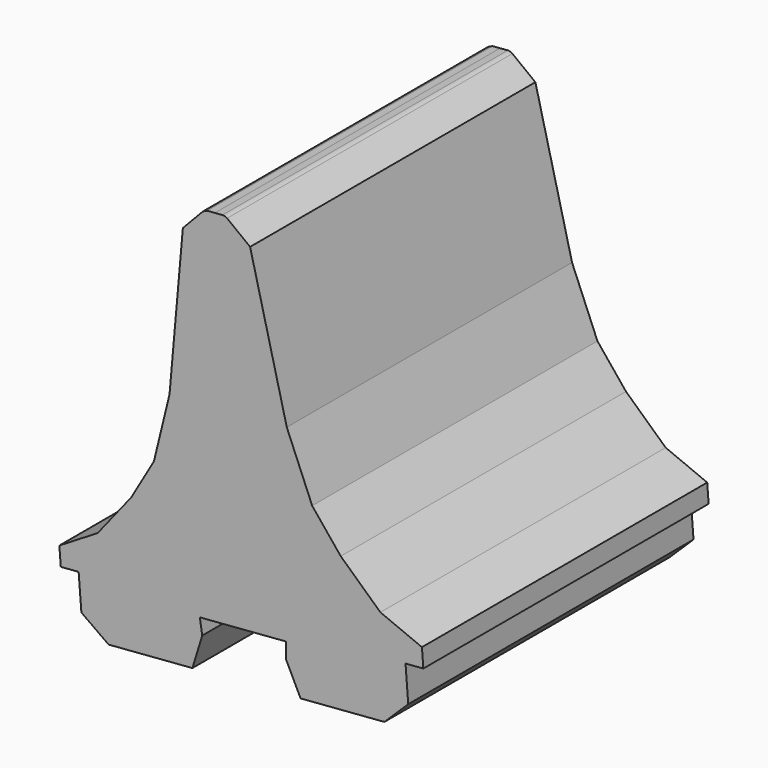
from build123d import *

# Parameters (mm, degrees)
F1_DEPTH = 34


with BuildPart() as f1:
    # F0 (on Front) → F1 (new body)
    with BuildSketch(Plane.XZ):
        with BuildLine():
            Line((-12.198149, -14.302597), (-12.427167, -12.850712))
            Line((-12.427167, -12.850712), (-4.222136, -12.207562))
            Line((-4.222136, -12.207562), (-4.222136, -13.677399))
            Line((-4.222136, -13.677399), (-2.822079, -16.533816))
            Line((-2.822079, -16.533816), (5.16684, -15.907606))
            Line((5.16684, -15.907606), (7.443612, -13.677399))
            Line((7.443612, -13.677399), (7.182818, -10.35031))
            Line((7.182818, -10.35031), (8.885174, -10.216871))
            Line((8.885174, -10.216871), (8.748127, -8.468476))
            Line((8.748127, -8.468476), (4.78861, -6.830055))
            Line((4.78861, -6.830055), (1.006297, -3.350328))
            Line((1.006297, -3.350328), (-1.716968, 0))
            Line((-1.716968, 0), (-4.137649, 5.802869))
            Line((-4.137649, 5.802869), (-7.634035, 19.805321))
            Line((-7.634035, 19.805321), (-9.829951, 21.48903))
            ThreePointArc((-9.829951, 21.48903), (-10.036781, 21.594364), (-10.267614, 21.618659))
            Line((-10.267614, 21.618659), (-10.99684, 21.561499))
            Line((-10.99684, 21.561499), (-11.726065, 21.504339))
            Line((-11.726065, 21.504339), (-12.138186, 21.308099))
            Line((-12.138186, 21.308099), (-14.04494, 19.302804))
            Line((-14.04494, 19.302804), (-15.316869, 4.926588))
            Line((-15.316869, 4.926588), (-16.803827, -1.182581))
            Line((-16.803827, -1.182581), (-18.97181, -4.916308))
            Line((-18.97181, -4.916308), (-22.165744, -8.942867))
            Line((-22.165744, -8.942867), (-25.821616, -11.178218))
            Line((-25.821616, -11.178218), (-25.684568, -12.926614))
            Line((-25.684568, -12.926614), (-23.982212, -12.793175))
            Line((-23.982212, -12.793175), (-23.721419, -16.120264))
            Line((-23.721419, -16.120264), (-21.124961, -17.968484))
            Line((-21.124961, -17.968484), (-13.136041, -17.342274))
            Line((-13.136041, -17.342274), (-12.198149, -14.302597))
        make_face()
    extrude(amount=F1_DEPTH)


solid = f1.part
